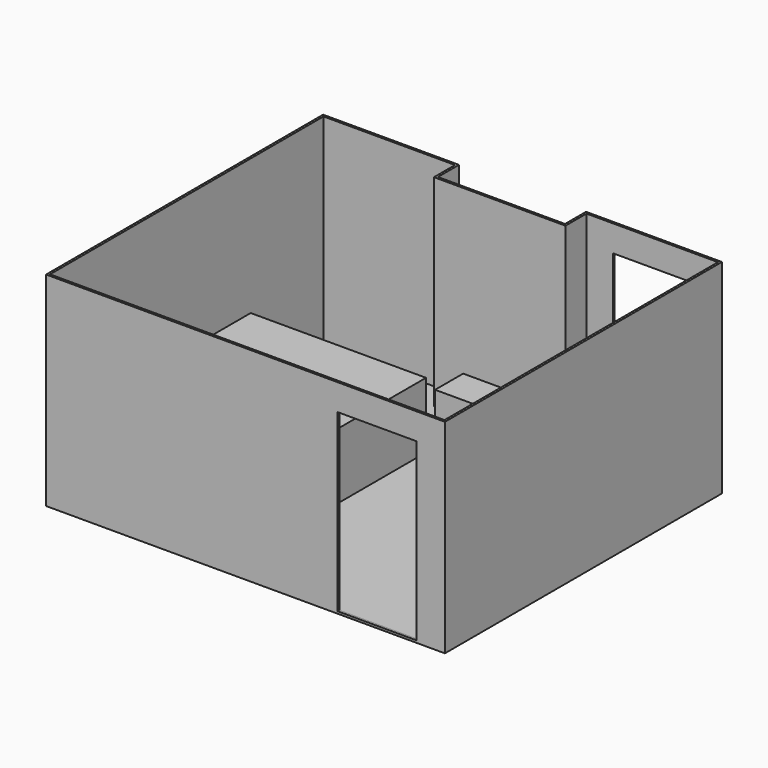
from build123d import *

# Parameters (mm, degrees)
F1_DEPTH      = 25.4
F3_DEPTH      = 2336.8
F3_DEPTH_BACK = 25.4
F4_W          = 914.4
F4_H          = 2032
F5_DEPTH      = 2159.001
F5_DEPTH_BACK = 1854.201
F6_W          = 2032
F6_H          = 1524
F7_DEPTH      = 762
F8_W          = 1219.2
F8_H          = 622.3
F9_DEPTH      = 762
F10_W         = 711.2
F10_H         = 406.4
F11_DEPTH     = 1422.4
F12_W         = 558.8
F12_H         = 558.8
F13_DEPTH     = 1016


with BuildPart() as f1:
    # F0 (on Top) → F1 (new body)
    with BuildSketch(Plane.XY):
        Polygon((-2286, -1828.8), (2286, -1828.8), (2286, 1828.8), (2286, 2133.6), (762, 2133.6), (762, 1828.8), (-762, 1828.8), (-762, 2133.6), (-2286, 2133.6), (-2286, 1828.8), align=None)
    extrude(amount=-F1_DEPTH)


with BuildPart() as f3:
    # F2 (on Top) → F3 (new body, two sides)
    with BuildSketch(Plane.XY) as f3_sk:
        Polygon((-2311.4, 2159), (-2311.4, 1828.8), (-2311.4, -1854.2), (2311.4, -1854.2), (2311.4, 1828.8), (2311.4, 2159), (736.6, 2159), (736.6, 1854.2), (-736.6, 1854.2), (-736.6, 2159), align=None)
        Polygon((2286, 1828.8), (2286, -1828.8), (-2286, -1828.8), (-2286, 1828.8), (-2286, 2133.6), (-762, 2133.6), (-762, 1828.8), (762, 1828.8), (762, 2133.6), (2286, 2133.6), align=None, mode=Mode.SUBTRACT)
    extrude(amount=F3_DEPTH)
    extrude(f3_sk.sketch, amount=-F3_DEPTH_BACK)

    # F4 (on Front) → F5 (cut, two sides)
    with BuildSketch(Plane.XZ) as f5_sk:
        with Locations((1524, 1016)):
            Rectangle(F4_W, F4_H)
    extrude(amount=-F5_DEPTH, mode=Mode.SUBTRACT)
    extrude(f5_sk.sketch, amount=F5_DEPTH_BACK, mode=Mode.SUBTRACT)


with BuildPart() as f7:
    # F6 (on Top) → F7 (new body)
    with BuildSketch(Plane.XY):
        with Locations((-1267.7912688641, 313.4567290545)):
            Rectangle(F6_W, F6_H)
    extrude(amount=F7_DEPTH)


with BuildPart() as f9:
    # F8 (on Top) → F9 (new body)
    with BuildSketch(Plane.XY):
        with Locations((-1083.8650912046, -1510.9829326626)):
            Rectangle(F8_W, F8_H)
    extrude(amount=F9_DEPTH)


with BuildPart() as f11:
    # F10 (on Top) → F11 (new body)
    with BuildSketch(Plane.XY):
        with Locations((1107.4812381009, 155.9432223439)):
            Rectangle(F10_W, F10_H)
    extrude(amount=F11_DEPTH)


with BuildPart() as f13:
    # F12 (on Top) → F13 (new body)
    with BuildSketch(Plane.XY):
        with Locations((-1997.7499693632, -1541.3061827421)):
            Rectangle(F12_W, F12_H)
    extrude(amount=F13_DEPTH)


solid = Compound([f1.part, f3.part, f7.part, f9.part, f11.part, f13.part])
